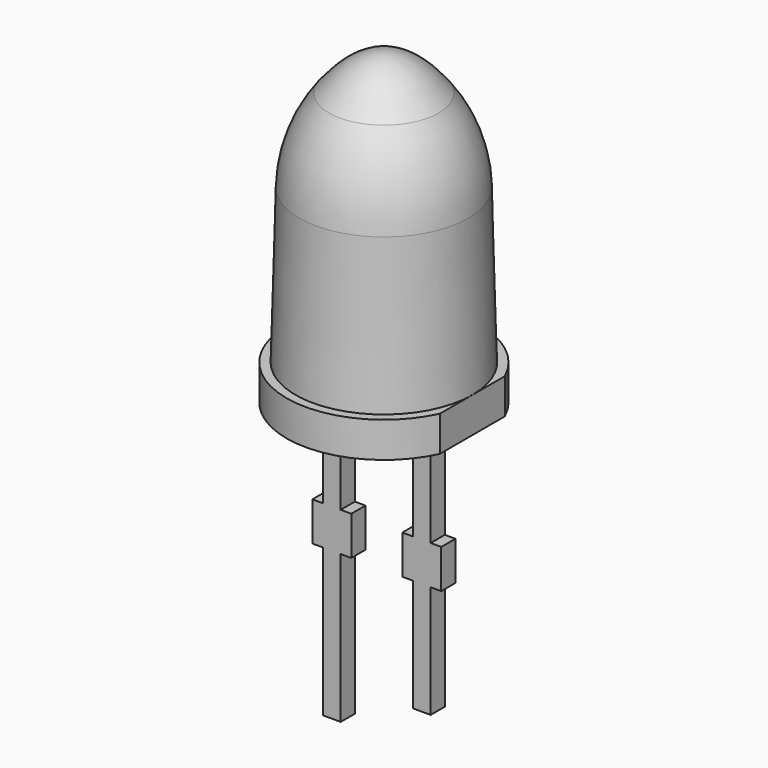
from build123d import *

# Parameters (mm, degrees)
PAD002_DEPTH             = 1
PAD003_DEPTH             = 0.25
BODY001_PLACEMENT_ANGLE  = 90
CLONE009_PLACEMENT_ANGLE = 180


with BuildPart() as part:
    # Sketch003 → Pad002 (new body)
    with BuildSketch(Plane.XY):
        with BuildLine():
            ThreePointArc((1.1456439239, -2.4999999999), (0, 2.75), (-1.1456439239, -2.4999999999))
            Line((-1.1456439239, -2.5), (1.1456439239, -2.5))
        make_face()
    extrude(amount=PAD002_DEPTH)

    # Sketch004 → Revolution001 (revolve)
    with BuildSketch(Plane.YZ):
        with BuildLine():
            add(Edge.make_bspline(
                [(-1.5494288107, 7.7), (-0.7747144053, 8.7), (0, 8.7)],
                knots=[-1.5494288107, -1.5494288107, -1.5494288107, 0, 0, 0], degree=2))
            Line((0, 8.7), (0, 1))
            Line((0, 1), (-2.5, 1))
            Line((-2.5, 1), (-2.3859606946, 5.3549853739))
            ThreePointArc((-2.3859606946, 5.3549853739), (-2.1547940918, 6.5942362206), (-1.5494288107, 7.7))
        make_face()
    revolve(axis=Axis((0, 0, 0), (0, 0, 1)))

    # Sketch005 → Pad003 (join, symmetric)
    with BuildSketch(Plane.YZ):
        Polygon((-1.52, 0), (-1.52, -2.9), (-1.82, -2.9), (-1.82, -4), (-1.52, -4), (-1.52, -7.175), (-1.02, -7.175), (-1.02, -4), (-0.72, -4), (-0.72, -2.9), (-1.02, -2.9), (-1.02, 0), align=None)
        Polygon((1.02, 0), (1.52, 0), (1.52, -2.9), (1.82, -2.9), (1.82, -4), (1.52, -4), (1.52, -8.175), (1.02, -8.175), (1.02, -4), (0.72, -4), (0.72, -2.9), (1.02, -2.9), align=None)
    extrude(amount=PAD003_DEPTH, both=True)


with BuildPart() as part_1:
    # Body001 placement: moved
    add(part.part.moved(Location((-3.81, 6.35, 4.445))).rotate(Axis((-3.81, 6.35, 4.445), (0, 0, -1)), BODY001_PLACEMENT_ANGLE))


with BuildPart() as part_2:
    # Clone009 placement: moved
    add(part_1.part.moved(Location((0, 12.7, 0))).rotate(Axis((0, 12.7, 0), (0, 0, 1)), CLONE009_PLACEMENT_ANGLE))


solid = part_2.part
